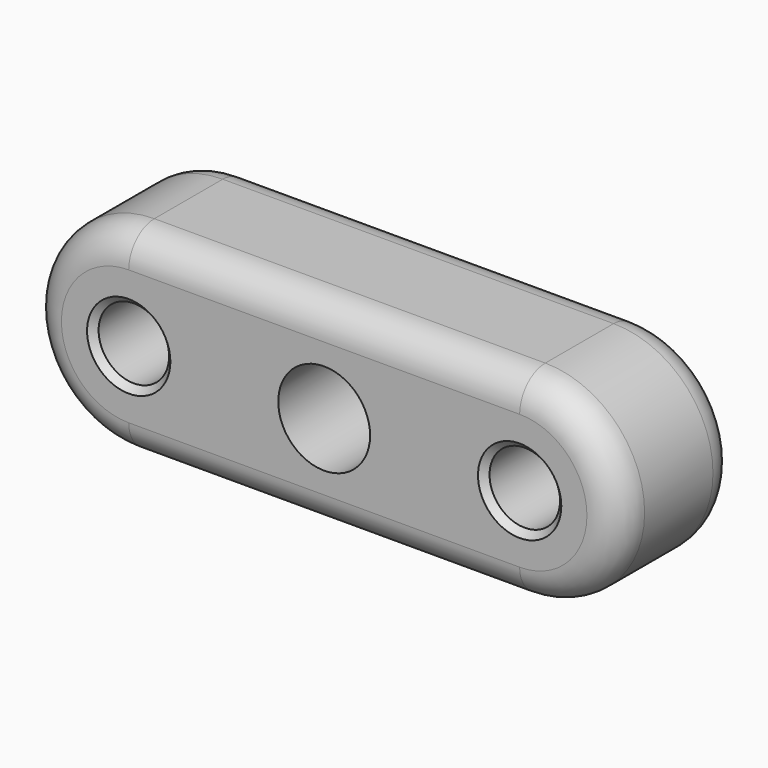
from build123d import *

# Parameters (mm, degrees)
SKETCH003_R     = 1.65
PAD002_DEPTH    = 7
SKETCH004_R     = 2.15
POCKET003_DEPTH = 8
FILLET001_R     = 1.5
CHAMFER001_SIZE = 0.3


with BuildPart() as part:
    # Sketch003 → Pad002 (new body)
    with BuildSketch(Plane.XZ):
        with BuildLine():
            ThreePointArc((0, 4.65), (-4.65, 0), (0, -4.65))
            Line((18.300003, -4.65), (0, -4.65))
            ThreePointArc((18.300003, -4.65), (22.95, 2e-06), (18.3, 4.65))
            Line((0, 4.65), (18.3, 4.65))
        make_face()
        Circle(SKETCH003_R, mode=Mode.SUBTRACT)
        with Locations((18.3, 0)):
            Circle(SKETCH003_R, mode=Mode.SUBTRACT)
    extrude(amount=PAD002_DEPTH)

    # Sketch004 (on Face8 of Pad002) → Pocket003 (cut)
    with BuildSketch(Plane.XZ.offset(7)):
        with Locations((9.15, 0)):
            Circle(SKETCH004_R)
    extrude(amount=-POCKET003_DEPTH, mode=Mode.SUBTRACT)

    # Fillet001
    fillet001_edges = [part.edges().sort_by_distance(p)[0] for p in [
        (-4.65, -7, 0),
        (-4.65, 0, 0),
    ]]
    fillet(fillet001_edges, radius=FILLET001_R)

    # Chamfer001
    chamfer001_edges = [part.edges().sort_by_distance(p)[0] for p in [
        (-1.65, -7, 0),
        (16.65, -7, 0),
        (7, 0, 0),
        (-1.65, 0, 0),
        (16.65, 0, 0),
    ]]
    chamfer(chamfer001_edges, length=CHAMFER001_SIZE)


with BuildPart() as part_1:
    # Body001 placement: moved
    add(part.part.moved(Location((0, -66.5, 0))))


solid = part_1.part
